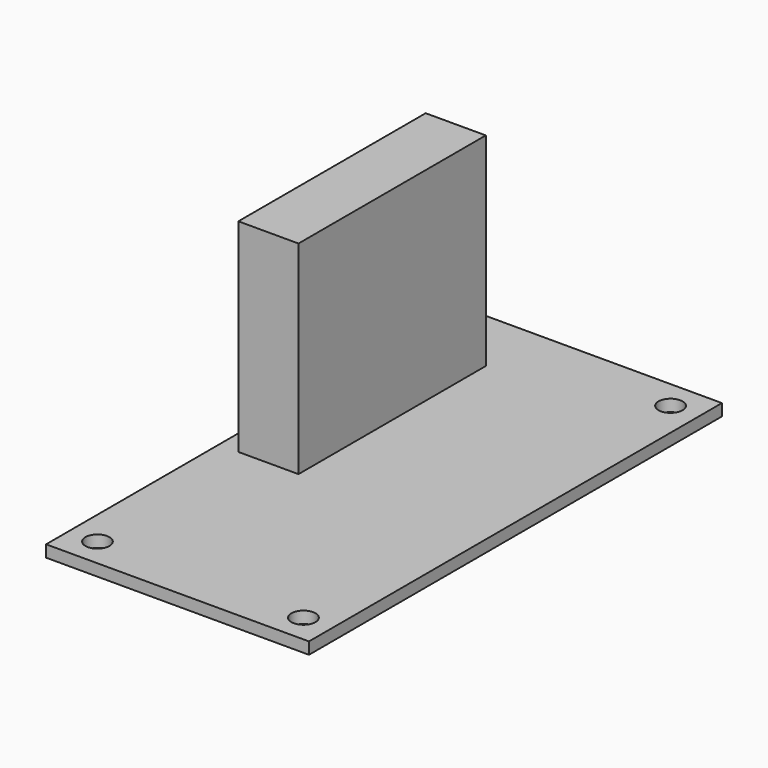
from build123d import *

# Parameters (mm, degrees)
F0_W     = 35.65
F0_H     = 70
F0_R     = 1.63195
F1_DEPTH = 1.6
F2_W     = 8.1534
F2_H     = 31.75
F3_DEPTH = 27.5336


with BuildPart() as f1:
    # F0 (on Top) → F1 (new body)
    with BuildSketch(Plane.XY):
        Rectangle(F0_W, F0_H)
        with Locations((-13.97, -31.115)):
            Circle(F0_R, mode=Mode.SUBTRACT)
        with Locations((13.97, -31.115)):
            Circle(F0_R, mode=Mode.SUBTRACT)
        with Locations((-13.97, 31.115)):
            Circle(F0_R, mode=Mode.SUBTRACT)
        with Locations((13.97, 31.115)):
            Circle(F0_R, mode=Mode.SUBTRACT)
    extrude(amount=F1_DEPTH)

    # F2 (on face) → F3 (join)
    with BuildSketch(Plane.XY.offset(1.6)):
        with Locations((-11.0813, 10.1334)):
            Rectangle(F2_W, F2_H)
    extrude(amount=F3_DEPTH)


solid = f1.part
